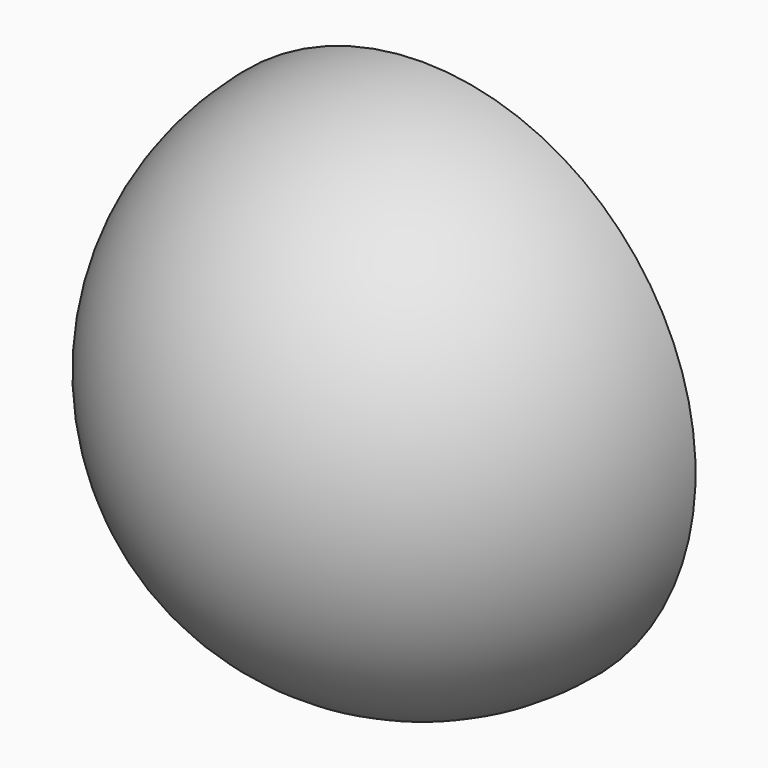
from build123d import *

# Parameters (mm, degrees)
F1_ANGLE = 180
F2_T     = -15.24


with BuildPart() as f1:
    # F0 (on Front) → F1 (revolve)
    with BuildSketch(Plane.XZ):
        with BuildLine():
            Line((0, 19.05), (0, -19.05))
            ThreePointArc((0, -19.05), (19.05, 0), (0, 19.05))
        make_face()
    revolve(axis=Axis((0, 0, 0), (0, 0, -1)), revolution_arc=F1_ANGLE)

    # F2
    f2_openings = [f1.faces().sort_by_distance(p)[0] for p in [
        (0, 0, 0),
    ]]
    offset(amount=F2_T, openings=f2_openings)


solid = f1.part
